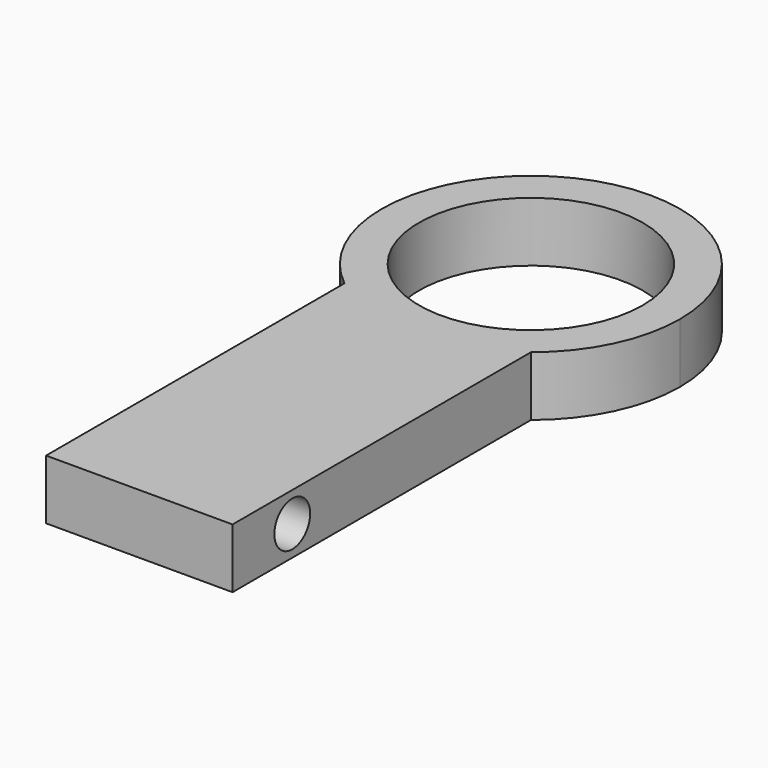
from build123d import *

# Parameters (mm, degrees)
F0_R     = 15
F1_DEPTH = 8
F3_D     = 6


with BuildPart() as f1:
    # F0 (on Top) → F1 (new body)
    with BuildSketch(Plane.XY):
        with BuildLine():
            ThreePointArc((12.5, -15.612494996), (18.0277563773, -8.6602540378), (20, 0))
            ThreePointArc((20, 0), (-8.6602540378, 18.0277563773), (-12.5, -15.612494996))
            Line((-12.5, -15.612494996), (12.5, -15.612494996))
        make_face()
        Circle(F0_R, mode=Mode.SUBTRACT)
        with BuildLine():
            Line((12.5, -15.612494996), (-12.5, -15.612494996))
            ThreePointArc((-12.5, -15.612494996), (0, -20), (12.5, -15.612494996))
        make_face()
        with BuildLine():
            ThreePointArc((12.5, -15.612494996), (0, -20), (-12.5, -15.612494996))
            Line((-12.5, -15.612494996), (-12.5, -65.612494996))
            Line((-12.5, -65.612494996), (12.5, -65.612494996))
            Line((12.5, -65.612494996), (12.5, -15.612494996))
        make_face()
    extrude(amount=F1_DEPTH)

    # F3 (through all)
    with Locations(Plane.YZ.offset(12.5)):
        with Locations((-55.612494996, 4)):
            Hole(F3_D / 2)


solid = f1.part
